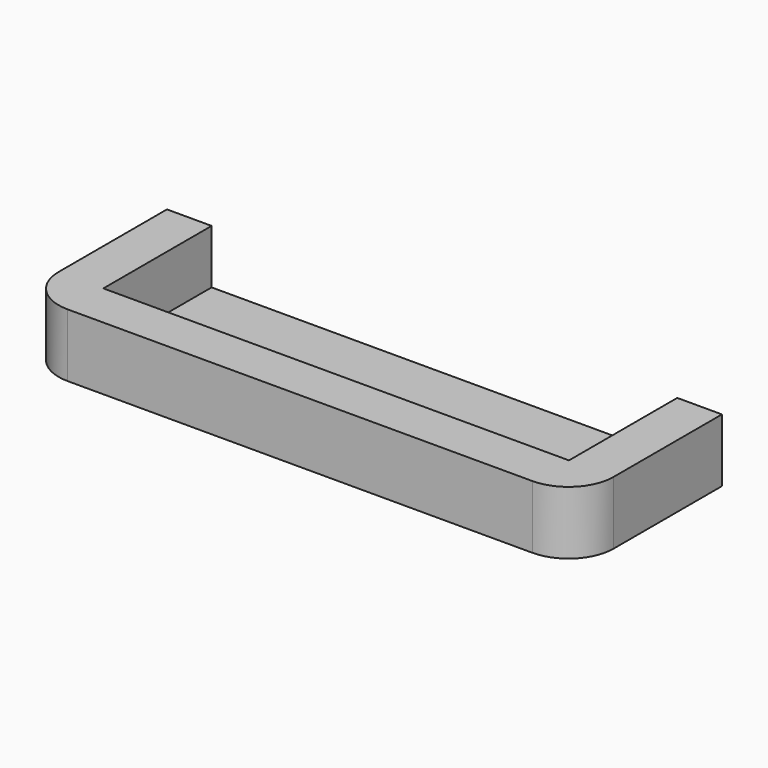
from build123d import *

# Parameters (mm, degrees)
F1_DEPTH = 6
F0_W     = 51.6
F0_H     = 15
F2_DEPTH = 1


with BuildPart() as f1:
    # F0 (on Top) → F1 (new body)
    with BuildSketch(Plane.XY):
        with BuildLine():
            Line((30.75, -5), (30.75, 10))
            Line((30.75, 10), (25.8, 10))
            Line((25.8, 10), (25.8, -5))
            Line((25.8, -5), (-25.8, -5))
            Line((-25.8, -5), (-25.8, 10))
            Line((-25.8, 10), (-30.75, 10))
            Line((-30.75, 10), (-30.75, -5))
            ThreePointArc((-30.75, -5), (-29.285534, -8.535534), (-25.75, -10))
            Line((-25.75, -10), (25.75, -10))
            ThreePointArc((25.75, -10), (29.285534, -8.535534), (30.75, -5))
        make_face()
    extrude(amount=F1_DEPTH)

    # F0 (on Top) → F2 (join)
    with BuildSketch(Plane.XY):
        with Locations((0, 2.5)):
            Rectangle(F0_W, F0_H)
        with BuildLine():
            Line((30.75, -5), (30.75, 10))
            Line((30.75, 10), (25.8, 10))
            Line((25.8, 10), (25.8, -5))
            Line((25.8, -5), (-25.8, -5))
            Line((-25.8, -5), (-25.8, 10))
            Line((-25.8, 10), (-30.75, 10))
            Line((-30.75, 10), (-30.75, -5))
            ThreePointArc((-30.75, -5), (-29.285534, -8.535534), (-25.75, -10))
            Line((-25.75, -10), (25.75, -10))
            ThreePointArc((25.75, -10), (29.285534, -8.535534), (30.75, -5))
        make_face()
    extrude(amount=-F2_DEPTH)


solid = f1.part
